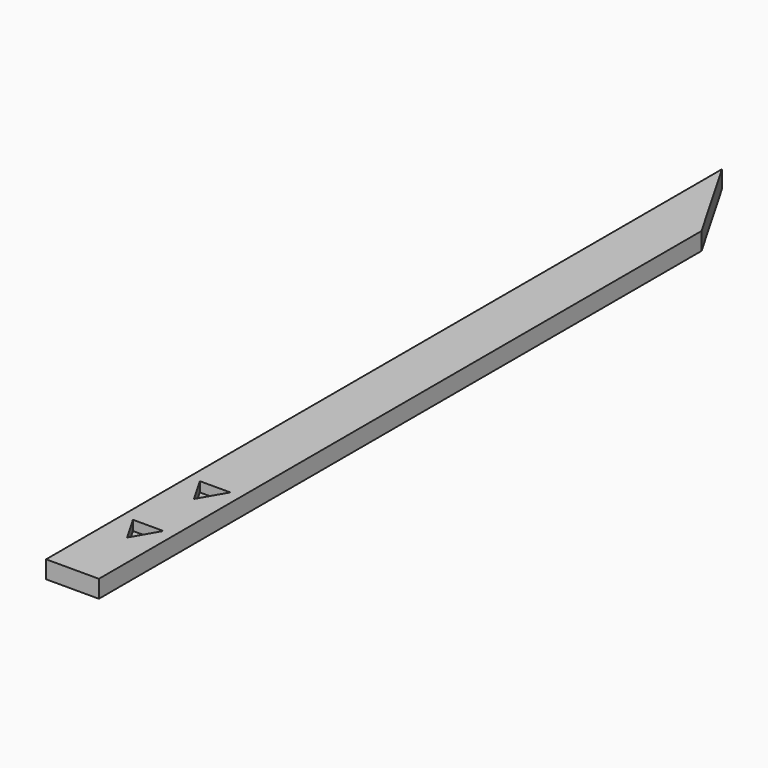
from build123d import *

# Parameters (mm, degrees)
SKETCH019_R            = 2.5
PAD013_DEPTH           = 8
POCKET_DEPTH           = 4.5
LINEARPATTERN001_COUNT = 2
LINEARPATTERN001_PITCH = 38


with BuildPart() as linearpattern001:
    # Sketch019 → Pad013 (new body)
    with BuildSketch(Plane.XY.offset(8)):
        Polygon((8, 192), (32, 150.430781), (32, -192), (8, -192), align=None)
        with Locations((20, -115)):
            Circle(SKETCH019_R, mode=Mode.SUBTRACT)
        with Locations((20, -153)):
            Circle(SKETCH019_R, mode=Mode.SUBTRACT)
    extrude(amount=PAD013_DEPTH)

    # Sketch021 → Pocket (cut)
    with BuildSketch(Plane(origin=(0, 0, 8), x_dir=(1, 0, 0), z_dir=(0, 0, -1))):
        Polygon((20, 123), (13.071797, 111), (26.928203, 111), align=None)
    pocket = extrude(amount=-POCKET_DEPTH, mode=Mode.SUBTRACT)

    # LinearPattern001: Pocket ×2
    with Locations(*[(0, -i * LINEARPATTERN001_PITCH, 0) for i in range(1, LINEARPATTERN001_COUNT)]):
        add(pocket, mode=Mode.SUBTRACT)


with BuildPart() as part_mirroring003:
    # Part__Mirroring003: instance of LinearPattern001
    add(linearpattern001.part.mirror(Plane(origin=(0, 0, 200), x_dir=(0, 1, 0), z_dir=(0, 0, 1))))


solid = part_mirroring003.part
